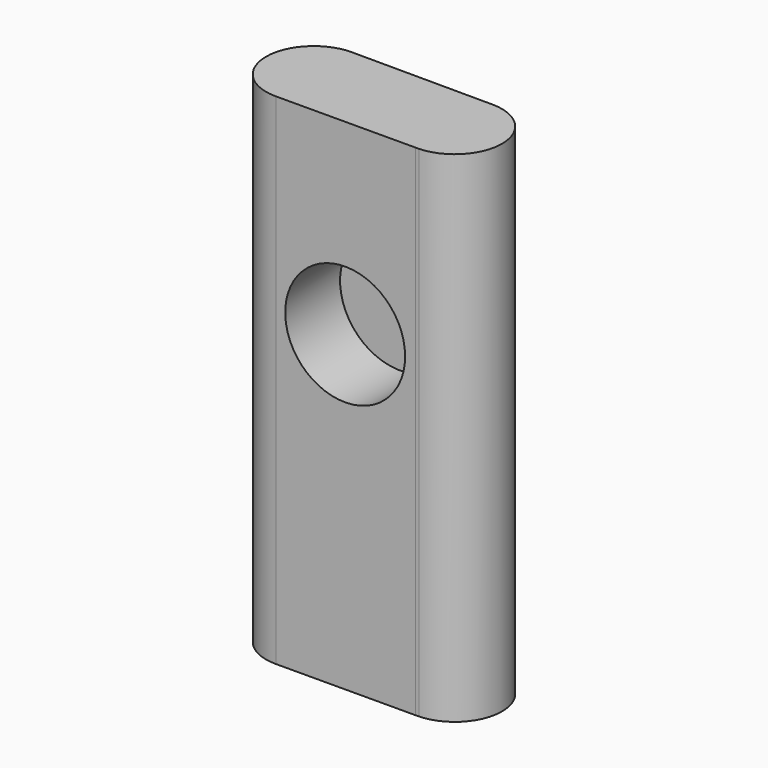
from build123d import *

# Parameters (mm, degrees)
F1_DEPTH = 508
F2_R     = 60.773242
F3_DEPTH = 70


with BuildPart() as f1:
    # F0 (on Top) → F1 (new body)
    with BuildSketch(Plane.XY):
        with BuildLine():
            Line((0, 48.465794), (0.31512, 48.464769))
            ThreePointArc((0.31512, 48.464769), (0.157561, 48.465538), (0, 48.465794))
        make_face()
        with BuildLine():
            Line((143.536791, 47.999157), (0.31512, 48.464769))
            Line((0.31512, 48.464769), (0, 48.465794))
            ThreePointArc((0, 48.465794), (-48.46572, -0.084415), (0.16883, -48.4655))
            Line((0.16883, -48.4655), (141.766064, -47.972245))
            Line((141.766064, -47.972245), (145.329609, -47.959831))
            ThreePointArc((145.329609, -47.959831), (191.371782, 0.896624), (143.536791, 47.999157))
        make_face()
        with BuildLine():
            ThreePointArc((141.766064, -47.972245), (143.547952, -47.99912), (145.329609, -47.959831))
            Line((145.329609, -47.959831), (141.766064, -47.972245))
        make_face()
    extrude(amount=-F1_DEPTH)

    # F2 (on face) → F3 (cut)
    with BuildSketch(Plane(origin=(0.16883, -48.4655, 0), x_dir=(0.999994, 0.003483, 0), z_dir=(0.003483, -0.999994, 0))):
        with Locations((70.35736, -190.318182)):
            Circle(F2_R)
    extrude(amount=-F3_DEPTH, mode=Mode.SUBTRACT)


solid = f1.part
